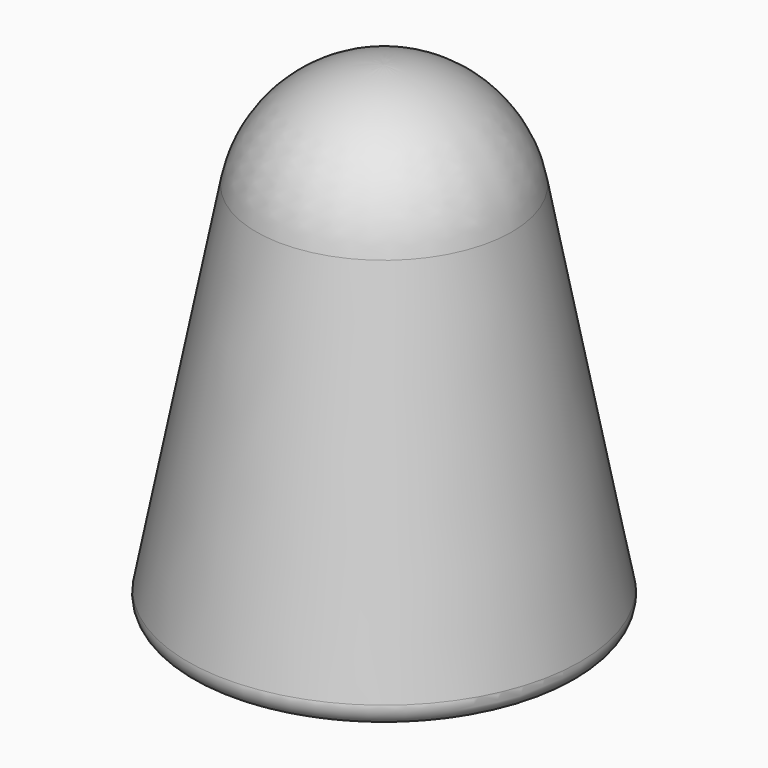
from build123d import *

# Parameters (mm, degrees)
FILLET_R = 1


with BuildPart() as part:
    # Sketch → Revolution (revolve)
    with BuildSketch(Plane.XZ):
        with BuildLine():
            Line((2.209372, 19.675648), (6, 0))
            Line((6, 0), (11, 0))
            Line((11, 0), (7.009748, 20.711819))
            ThreePointArc((7.009748, 20.711819), (4.545316, 24.865932), (0, 26.5))
            Line((0, 26.5), (0, 21.5))
            ThreePointArc((2.209372, 19.675648), (1.432618, 20.984965), (0, 21.5))
        make_face()
    revolve(axis=Axis((0, 0, 0), (0, 0, 1)))

    # Fillet
    fillet_edges = [part.edges().sort_by_distance(p)[0] for p in [
        (-6, 0, 0),
        (-11, 0, 0),
    ]]
    fillet(fillet_edges, radius=FILLET_R)


solid = part.part
